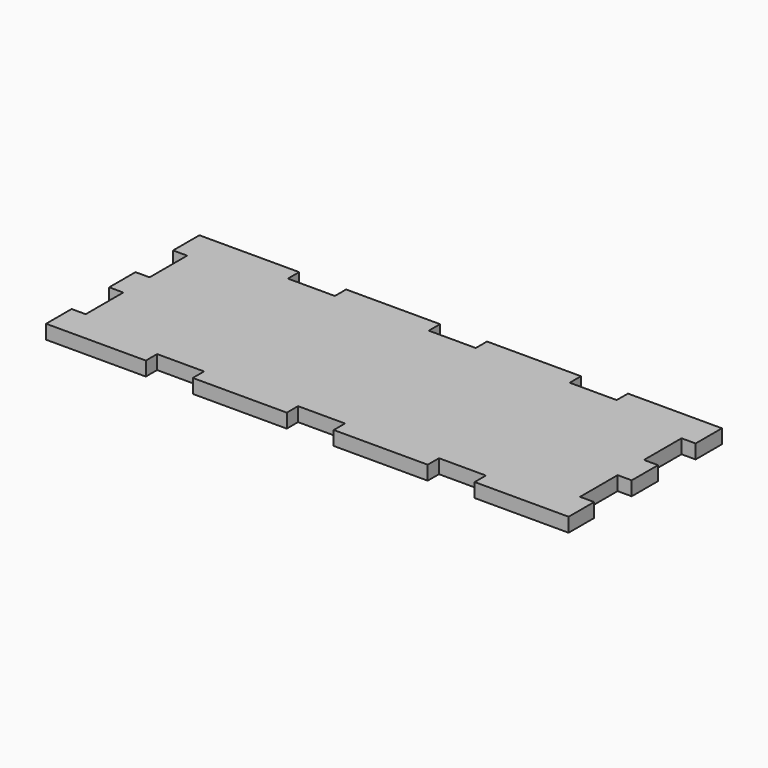
from build123d import *

# Parameters (mm, degrees)
F1_DEPTH = 3


with BuildPart() as f1:
    # F0 (on Top) → F1 (new body)
    with BuildSketch(Plane.XY):
        Polygon((-20, 0.207869), (0, 0.207869), (0, 7), (-3, 7), (-3, 17), (0, 17), (0, 24), (-3, 24), (-3, 34), (0, 34), (0, 41), (-20, 41), (-20, 38), (-30, 38), (-30, 41), (-50, 41), (-50, 38), (-60, 38), (-60, 41), (-80, 41), (-80, 38), (-90, 38), (-90, 41), (-110, 41), (-111.235961, 41), (-111.235961, 34), (-108.235961, 34), (-108.235961, 24), (-111.235961, 24), (-111.235961, 17), (-108.235961, 17), (-108.235961, 7), (-111.235961, 7), (-111.235961, 0.207869), (-110, 0.207869), (-90, 0.207869), (-90, 3.207869), (-80, 3.207869), (-80, 0.207869), (-60, 0.207869), (-60, 3.207869), (-50, 3.207869), (-50, 0.207869), (-30, 0.207869), (-30, 3.207869), (-20, 3.207869), align=None)
    extrude(amount=F1_DEPTH)


solid = f1.part
